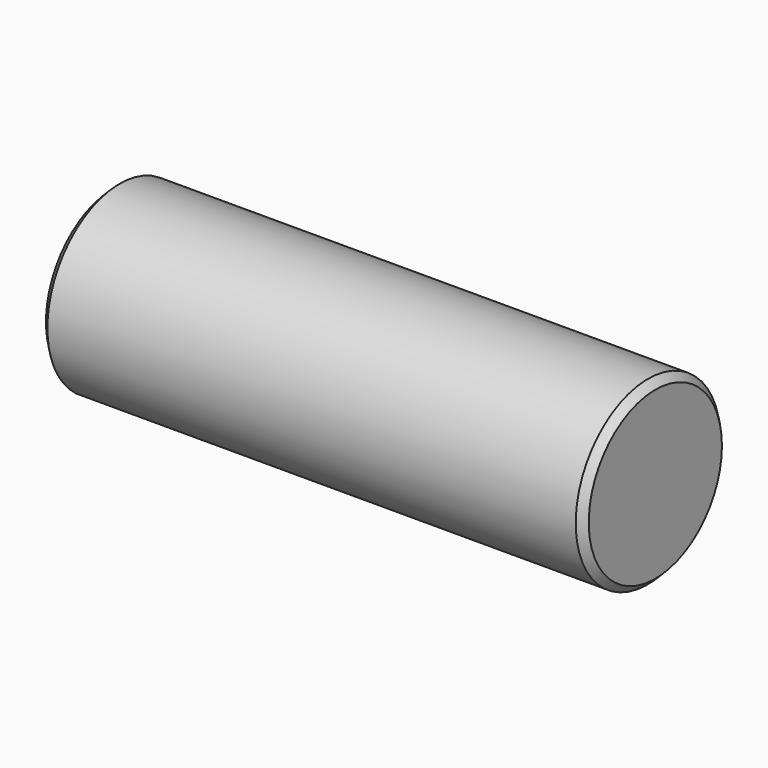
from build123d import *

# Parameters (mm, degrees)
F0_R     = 1.5875
F1_DEPTH = 9.525
F2_SIZE  = 0.127
F3_SIZE  = 0.127


with BuildPart() as f1:
    # F0 (on Right) → F1 (new body)
    with BuildSketch(Plane.YZ):
        Circle(F0_R)
    extrude(amount=F1_DEPTH)

    # F2
    f2_edges = [f1.edges().sort_by_distance(p)[0] for p in [
        (9.525, -1.5875, 0),
    ]]
    chamfer(f2_edges, length=F2_SIZE)

    # F3
    f3_edges = [f1.edges().sort_by_distance(p)[0] for p in [
        (0, -1.5875, 0),
    ]]
    chamfer(f3_edges, length=F3_SIZE)


solid = f1.part
